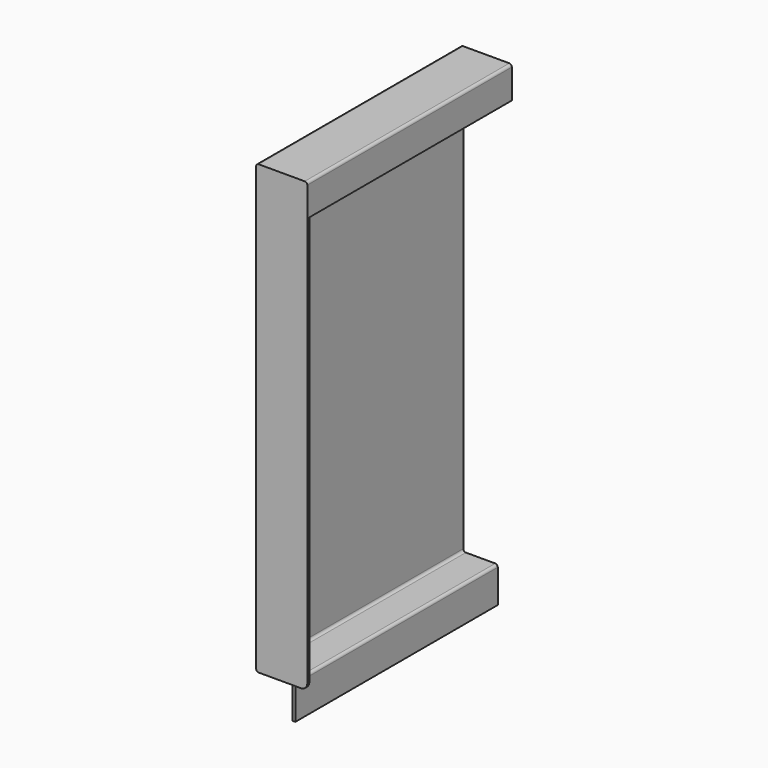
from build123d import *

# Parameters (mm, degrees)
F4_DEPTH = 2
F6_R     = 2


with BuildPart() as f2:
    # F2: sweep along a path in F1
    with BuildLine(Plane.XY) as f2_path:
        Line((0, 0), (0, 198))
    # F0 (on Front) → F2 (sweep)
    with BuildSketch(Plane.XZ):
        Polygon((40, 0), (0, 0), (0, -350), (27, -350), (27, -376), (29, -376), (29, -348), (2, -348), (2, -2), (38, -2), (38, -25), (40, -25), align=None)
    sweep(path=f2_path.line)


with BuildPart() as f4:
    # F3 (on face) → F4 (new body)
    with BuildSketch(Plane.XZ):
        with BuildLine():
            Line((40, -345), (40, 0))
            Line((40, 0), (0, 0))
            Line((0, 0), (0, -350))
            Line((0, -350), (35, -350))
            ThreePointArc((35, -350), (38.5355339059, -348.5355339059), (40, -345))
        make_face()
    extrude(amount=F4_DEPTH)


with BuildPart() as f2_1:
    add(f2.part)

    # F5: union F4
    add(f4.part)

    # F6
    f6_edges = [f2_1.edges().sort_by_distance(p)[0] for p in [
        (2, 99, -348),
        (29, 99, -348),
        (27, 99, -350),
        (0, 98, -350),
        (40, 98, 0),
        (0, 98, 0),
        (2, 99, -2),
        (38, 99, -2),
    ]]
    fillet(f6_edges, radius=F6_R)


solid = f2_1.part
